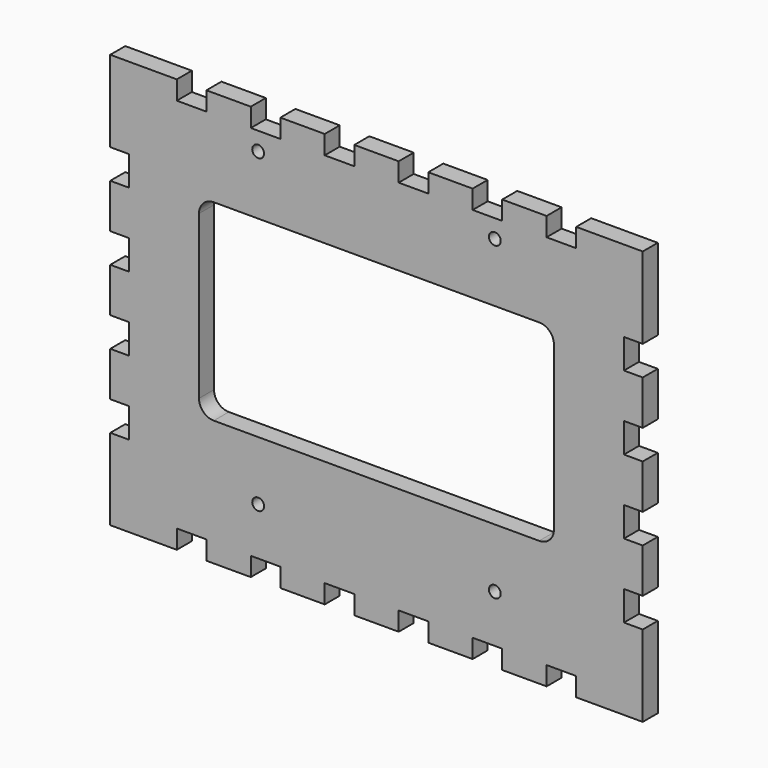
from build123d import *

# Parameters (mm, degrees)
F0_R     = 1.5
F1_DEPTH = 6.35
F2_D     = 4


with BuildPart() as f1:
    # F0 (on Front) → F1 (new body)
    with BuildSketch(Plane.XZ):
        Polygon((180, 112.5), (180, 140), (157.5, 140), (157.5, 133.65), (147.5, 133.65), (147.5, 140), (132.5, 140), (132.5, 133.65), (122.5, 133.65), (122.5, 140), (107.5, 140), (107.5, 133.65), (97.5, 133.65), (97.5, 140), (82.5, 140), (82.5, 133.65), (72.5, 133.65), (72.5, 140), (57.5, 140), (57.5, 133.65), (47.5, 133.65), (47.5, 140), (32.5, 140), (32.5, 133.65), (22.5, 133.65), (22.5, 140), (0, 140), (0, 112.5), (6.35, 112.5), (6.35, 102.5), (0, 102.5), (0, 87.5), (6.35, 87.5), (6.35, 77.5), (0, 77.5), (0, 62.5), (6.35, 62.5), (6.35, 52.5), (0, 52.5), (0, 37.5), (6.35, 37.5), (6.35, 27.5), (0, 27.5), (0, 0), (22.5, 0), (22.5, 6.35), (32.5, 6.35), (32.5, 0), (47.5, 0), (47.5, 6.35), (57.5, 6.35), (57.5, 0), (72.5, 0), (72.5, 6.35), (82.5, 6.35), (82.5, 0), (97.5, 0), (97.5, 6.35), (107.5, 6.35), (107.5, 0), (122.5, 0), (122.5, 6.35), (132.5, 6.35), (132.5, 0), (147.5, 0), (147.5, 6.35), (157.5, 6.35), (157.5, 0), (180, 0), (180, 27.5), (173.65, 27.5), (173.65, 37.5), (180, 37.5), (180, 52.5), (173.65, 52.5), (173.65, 62.5), (180, 62.5), (180, 77.5), (173.65, 77.5), (173.65, 87.5), (180, 87.5), (180, 102.5), (173.65, 102.5), (173.65, 112.5), align=None)
        with Locations((50, 22.5)):
            Circle(F0_R, mode=Mode.SUBTRACT)
        with Locations((130, 22.5)):
            Circle(F0_R, mode=Mode.SUBTRACT)
        with Locations((50, 127.5)):
            Circle(F0_R, mode=Mode.SUBTRACT)
        with BuildLine():
            ThreePointArc((30, 102.5), (31.4644660941, 106.0355339059), (35, 107.5))
            Line((35, 107.5), (145, 107.5))
            ThreePointArc((145, 107.5), (148.5355339059, 106.0355339059), (150, 102.5))
            Line((150, 102.5), (150, 47.5))
            ThreePointArc((150, 47.5), (148.5355339059, 43.9644660941), (145, 42.5))
            Line((145, 42.5), (35, 42.5))
            ThreePointArc((35, 42.5), (31.4644660941, 43.9644660941), (30, 47.5))
            Line((30, 47.5), (30, 102.5))
        make_face(mode=Mode.SUBTRACT)
        with Locations((130, 127.5)):
            Circle(F0_R, mode=Mode.SUBTRACT)
    extrude(amount=F1_DEPTH)

    # F2 (through all)
    with Locations(Plane(origin=(0, 0, 0), x_dir=(1, 0, 0), z_dir=(0, 1, 0))):
        with Locations((50, -127.5), (130, -127.5), (130, -22.5), (50, -22.5)):
            Hole(F2_D / 2)


solid = f1.part
